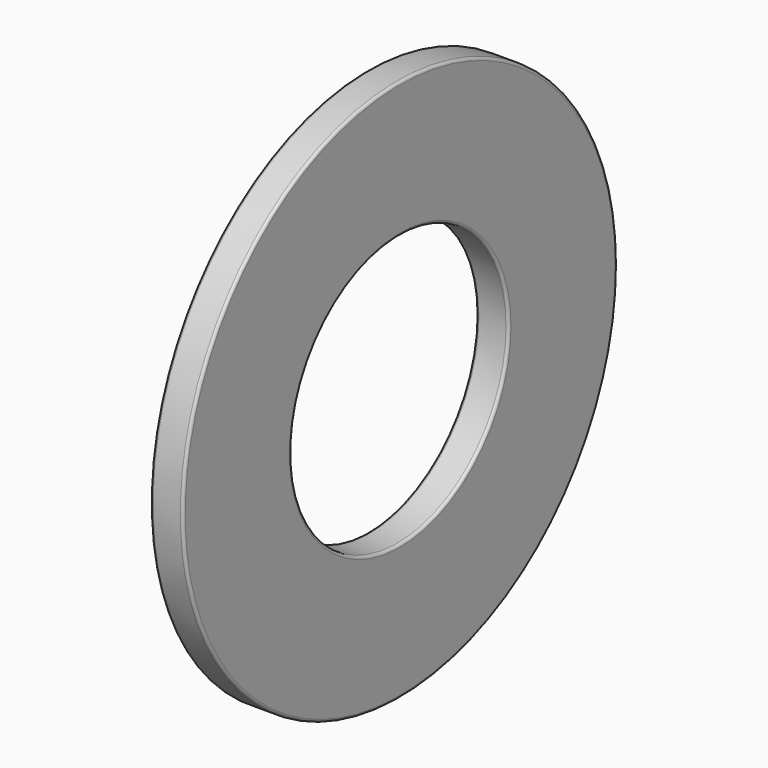
from build123d import *

# Parameters (mm, degrees)
F0_R     = 5
F0_R_2   = 2.5
F1_DEPTH = 0.6
F2_R     = 0.05


with BuildPart() as f1:
    # F0 (on Right) → F1 (new body)
    with BuildSketch(Plane.YZ):
        Circle(F0_R)
        Circle(F0_R_2, mode=Mode.SUBTRACT)
    extrude(amount=F1_DEPTH)

    # F2
    f2_edges = [f1.edges().sort_by_distance(p)[0] for p in [
        (0.6, -5, 0),
        (0, -5, 0),
        (0, -2.5, 0),
        (0.6, -2.5, 0),
    ]]
    fillet(f2_edges, radius=F2_R)


solid = f1.part
